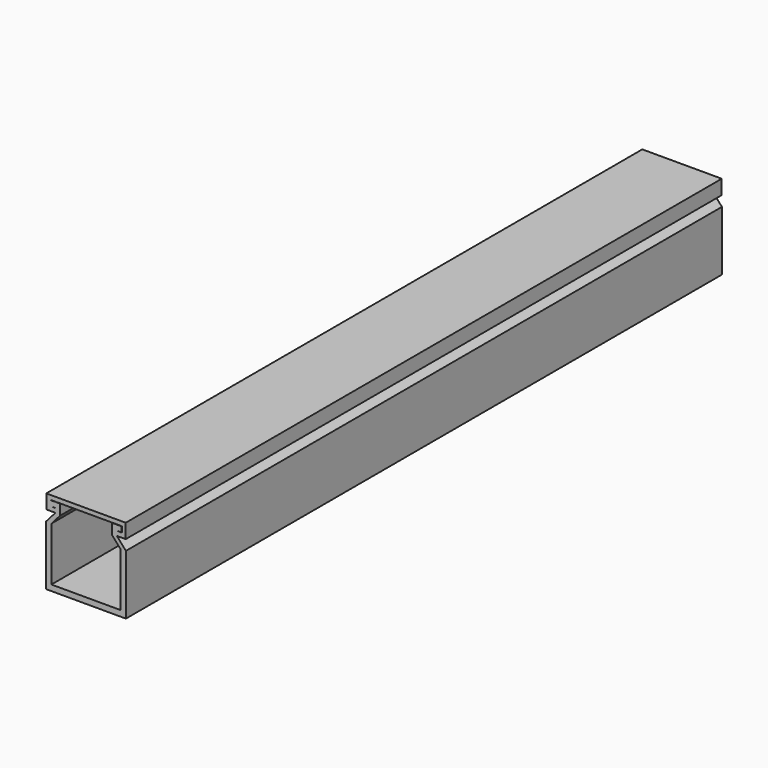
from build123d import *

# Parameters (mm, degrees)
PAD_DEPTH    = 140
PAD001_DEPTH = 140


with BuildPart() as part:
    # Sketch → Pad (new body)
    with BuildSketch(Plane.XZ):
        Polygon((1.709151, 14), (0.847738, 14), (0.847738, 15), (2.609062, 15), (2.609062, 12.991093), (1, 11.170912), (1, 1.090989), (14, 1.090989), (14, 11.170912), (12.390938, 12.991093), (12.390938, 15), (14.152262, 15), (14.152262, 14), (13.290849, 14), (13.290849, 13.145577), (15, 11.212176), (15, 0), (0, 0), (0, 11.212176), (1.709151, 13.145577), align=None)
    extrude(amount=PAD_DEPTH)

    # Sketch001 → Pad001 (join)
    with BuildSketch(Plane.XZ):
        Polygon((1.670899, 13.98237), (0.833981, 13.98237), (0.833981, 15.0478), (14.219909, 15.0478), (14.219909, 13.970164), (13.277989, 13.970164), (13.277989, 13.140446), (14.96773, 13.140446), (14.96773, 15.855778), (0.035527, 15.855778), (0.035527, 13.198529), (1.670899, 13.198529), align=None)
    extrude(amount=PAD001_DEPTH)


solid = part.part
